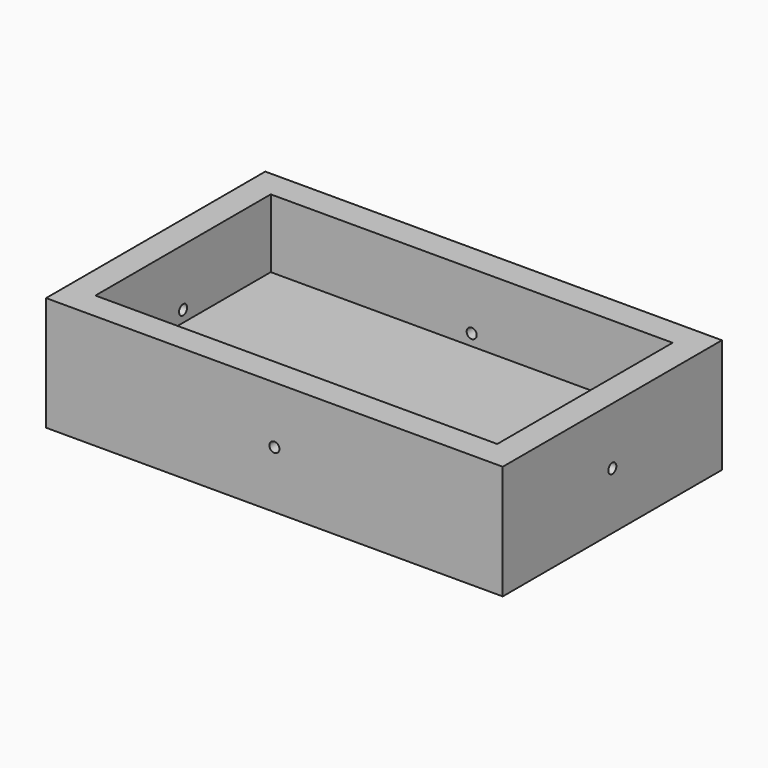
from build123d import *

# Parameters (mm, degrees)
F1_DEPTH = 31.75
F2_W     = 111.76
F2_H     = 60.96
F3_DEPTH = 19.05
F4_R     = 1.397
F5_DEPTH = 127.001
F6_R     = 1.397
F7_DEPTH = 76.201


with BuildPart() as f1:
    # F0 (on Top) → F1 (new body)
    with BuildSketch(Plane.XY):
        Polygon((63.5, 0), (0, 0), (-63.5, 0), (-63.5, -76.2), (63.5, -76.2), align=None)
    extrude(amount=F1_DEPTH)

    # F2 (on face) → F3 (cut)
    with BuildSketch(Plane.XY.offset(31.75)):
        with Locations((0, -38.1)):
            Rectangle(F2_W, F2_H)
    extrude(amount=-F3_DEPTH, mode=Mode.SUBTRACT)

    # F4 (on face) → F5 (cut, through all)
    with BuildSketch(Plane.YZ.offset(63.5)):
        with Locations((-38.1, 15.875)):
            Circle(F4_R)
    extrude(amount=-F5_DEPTH, mode=Mode.SUBTRACT)

    # F6 (on face) → F7 (cut, through all)
    with BuildSketch(Plane.XZ.offset(76.2)):
        with Locations((0, 15.875)):
            Circle(F6_R)
    extrude(amount=-F7_DEPTH, mode=Mode.SUBTRACT)


solid = f1.part
